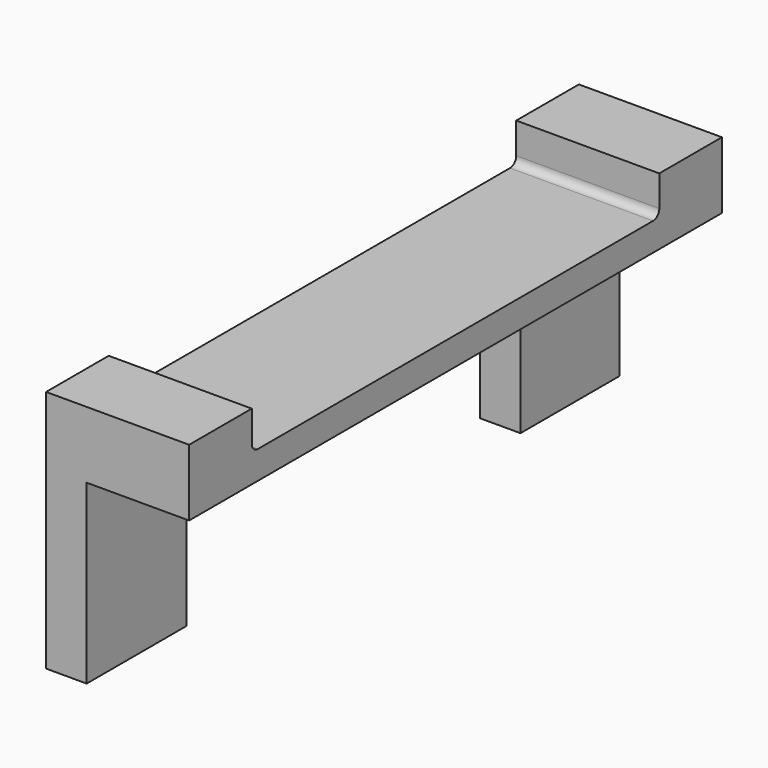
from build123d import *

# Parameters (mm, degrees)
F1_DEPTH = 172.25
F3_DEPTH = 50
F5_DEPTH = 25


with BuildPart() as f1:
    # F0 (on Front) → F1 (new body)
    with BuildSketch(Plane.XZ):
        Polygon((0, 63), (0, 0), (10.5, 0), (10.5, 45.75), (37, 45.75), (37, 63), align=None)
    extrude(amount=F1_DEPTH)

    # F2 (on face) → F3 (cut)
    with BuildSketch(Plane.YZ.offset(37)):
        with BuildLine():
            Line((-20.25, 63), (-152, 63))
            Line((-152, 63), (-152, 55))
            ThreePointArc((-152, 55), (-151.414214, 53.585786), (-150, 53))
            Line((-150, 53), (-22.25, 53))
            ThreePointArc((-22.25, 53), (-20.835786, 53.585786), (-20.25, 55))
            Line((-20.25, 55), (-20.25, 63))
        make_face()
    extrude(amount=-F3_DEPTH, mode=Mode.SUBTRACT)

    # F4 (on face) → F5 (cut)
    with BuildSketch(Plane(origin=(0, 0, 0), x_dir=(0, -1, 0), z_dir=(-1, 0, 0))):
        with BuildLine():
            Line((32, 33), (32, 0))
            Line((32, 0), (140, 0))
            Line((140, 0), (140, 33))
            ThreePointArc((140, 33), (138.535534, 36.535534), (135, 38))
            Line((135, 38), (37, 38))
            ThreePointArc((37, 38), (33.464466, 36.535534), (32, 33))
        make_face()
    extrude(amount=-F5_DEPTH, mode=Mode.SUBTRACT)


solid = f1.part
